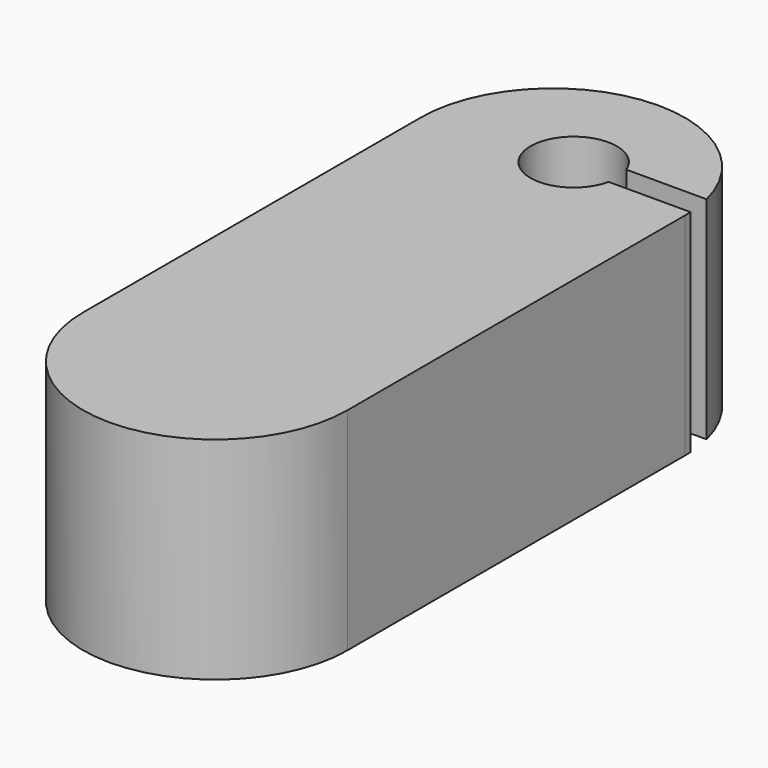
from build123d import *

# Parameters (mm, degrees)
F0_W     = 31.28859
F0_H     = 49.892618
F1_DEPTH = 25
F2_R     = 5.101278
F3_DEPTH = 25
F4_W     = 23.469856
F4_H     = 2.933731
F5_DEPTH = 25


with BuildPart() as f1:
    # F0 (on Top) → F1 (new body)
    with BuildSketch(Plane.XY):
        with BuildLine():
            ThreePointArc((14.692953, 24.100671), (-0.951342, 39.744966), (-16.595637, 24.100671))
            Line((-16.595637, 24.100671), (14.692953, 24.100671))
        make_face()
        with Locations((-0.951342, -0.845638)):
            Rectangle(F0_W, F0_H)
        with BuildLine():
            Line((14.692953, -25.791947), (-16.595637, -25.791947))
            ThreePointArc((-16.595637, -25.791947), (-0.951342, -41.436242), (14.692953, -25.791947))
        make_face()
    extrude(amount=F1_DEPTH)

    # F2 (on Top) → F3 (cut)
    with BuildSketch(Plane.XY):
        with Locations((0, 26.003355)):
            Circle(F2_R)
    extrude(amount=F3_DEPTH, mode=Mode.SUBTRACT)

    # F4 (on face) → F5 (cut)
    with BuildSketch(Plane(origin=(0, 0, 0), x_dir=(1, 0, 0), z_dir=(0, 0, -1))):
        with Locations((14.623049, -26.399825)):
            Rectangle(F4_W, F4_H)
    extrude(amount=-F5_DEPTH, mode=Mode.SUBTRACT)


solid = f1.part
